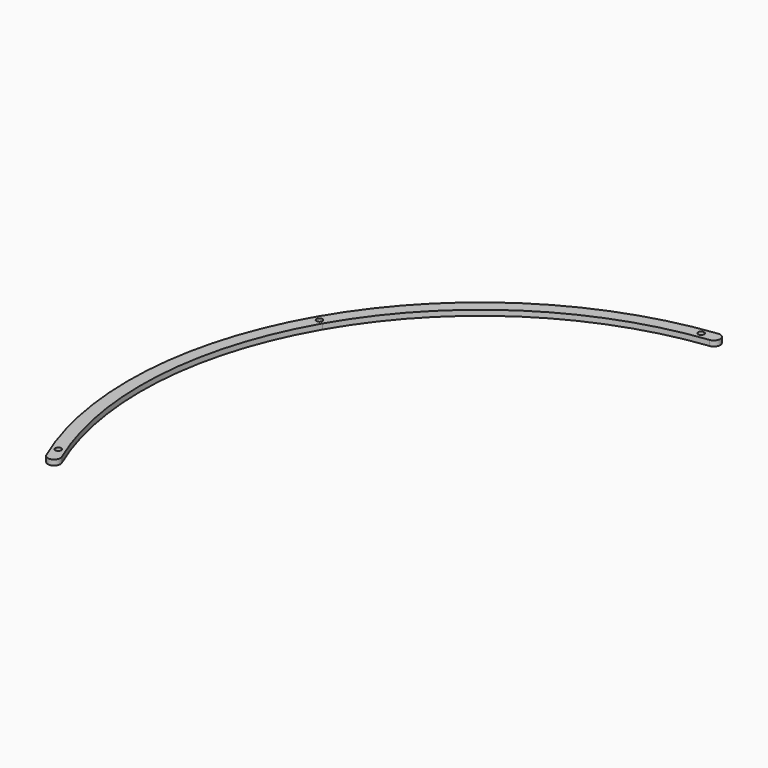
from build123d import *

# Parameters (mm, degrees)
PAD015_DEPTH                        = 3
SKETCH054_R                         = 1.65
POCKET018_DEPTH                     = 358.938883
POCKET018_DEPTH_BACK                = 361.938883
BODY001003005003004_PLACEMENT_ANGLE = 60


with BuildPart() as part:
    # Sketch053 → Pad015 (new body)
    with BuildSketch(Plane.XY):
        with BuildLine():
            ThreePointArc((152.005097, 113.785532), (84.992984, 169.790723), (0, 189.875477))
            Line((0, 189.875477), (0, 196.875477))
            ThreePointArc((157.608957, 117.98038), (88.126358, 176.050273), (0, 196.875477))
            ThreePointArc((152.005097, 113.785532), (156.904451, 113.081026), (157.608957, 117.98038))
        make_face()
    pad015 = extrude(amount=PAD015_DEPTH)

    # Sketch054 → Pocket018 (cut, two sides)
    with BuildSketch(Plane.XY) as pocket018_sk:
        with Locations((150.82443, 121.020933)):
            Circle(SKETCH054_R)
        with BuildLine():
            ThreePointArc((0, 191.725477), (1.65, 193.375477), (0, 195.025477))
            Line((0, 191.725477), (0, 195.025477))
        make_face()
    pocket018 = extrude(amount=-POCKET018_DEPTH, mode=Mode.SUBTRACT) + extrude(pocket018_sk.sketch, amount=POCKET018_DEPTH_BACK, mode=Mode.SUBTRACT)

    # Mirrored020: Pad015, Pocket018 across Sketch053 V_Axis
    add(pad015.mirror(Plane(origin=(0, 0, 0), x_dir=(0, 0, 1), z_dir=(1, 0, 0))))
    add(pocket018.mirror(Plane(origin=(0, 0, 0), x_dir=(0, 0, 1), z_dir=(1, 0, 0))), mode=Mode.SUBTRACT)


with BuildPart() as part_1:
    # Body001003005003004 placement: moved
    add(part.part.rotate(Axis((0, 0, 0), (0, 0, 1)), BODY001003005003004_PLACEMENT_ANGLE))


solid = part_1.part
